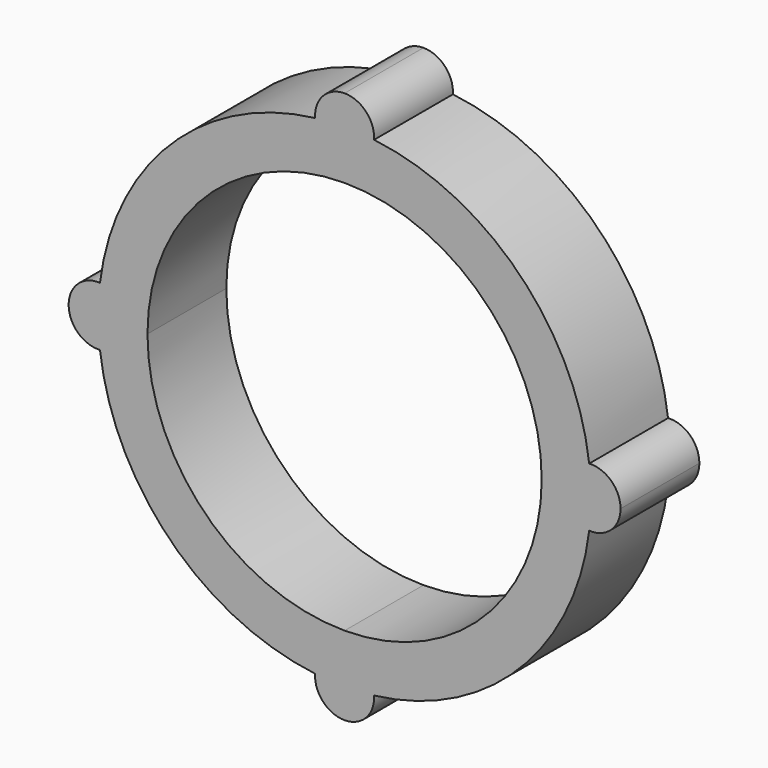
from build123d import *

# Parameters (mm, degrees)
F1_DEPTH = 10


with BuildPart() as f1:
    # F0 (on Front) → F1 (new body)
    with BuildSketch(Plane.XZ):
        with BuildLine():
            Line((0, 20), (0, 28))
            ThreePointArc((0, 28), (-2.184033, 27.056696), (-2.994595, 24.82))
            ThreePointArc((-2.994595, 24.82), (-17.67767, 17.67767), (-24.82, 2.994595))
            ThreePointArc((-24.82, 2.994595), (-27.056696, 2.184033), (-28, 0))
            Line((-28, 0), (-20, 0))
            ThreePointArc((-20, 0), (-14.142136, 14.142136), (0, 20))
        make_face()
        with BuildLine():
            ThreePointArc((0, -20), (-14.142136, -14.142136), (-20, 0))
            Line((-20, 0), (-28, 0))
            ThreePointArc((-28, 0), (-27.056696, -2.184033), (-24.82, -2.994595))
            ThreePointArc((-24.82, -2.994595), (-17.67767, -17.67767), (-2.994595, -24.82))
            ThreePointArc((-2.994595, -24.82), (-2.184033, -27.056696), (0, -28))
            Line((0, -28), (0, -20))
        make_face()
        with BuildLine():
            Line((28, 0), (20, 0))
            ThreePointArc((20, 0), (14.142136, -14.142136), (0, -20))
            Line((0, -20), (0, -28))
            ThreePointArc((0, -28), (2.184033, -27.056696), (2.994595, -24.82))
            ThreePointArc((2.994595, -24.82), (17.67767, -17.67767), (24.82, -2.994595))
            ThreePointArc((24.82, -2.994595), (27.056696, -2.184033), (28, 0))
        make_face()
        with BuildLine():
            ThreePointArc((2.994595, 24.82), (2.184033, 27.056696), (0, 28))
            Line((0, 28), (0, 20))
            ThreePointArc((0, 20), (14.142136, 14.142136), (20, 0))
            Line((20, 0), (28, 0))
            ThreePointArc((28, 0), (27.056696, 2.184033), (24.82, 2.994595))
            ThreePointArc((24.82, 2.994595), (17.67767, 17.67767), (2.994595, 24.82))
        make_face()
    extrude(amount=F1_DEPTH)


solid = f1.part
